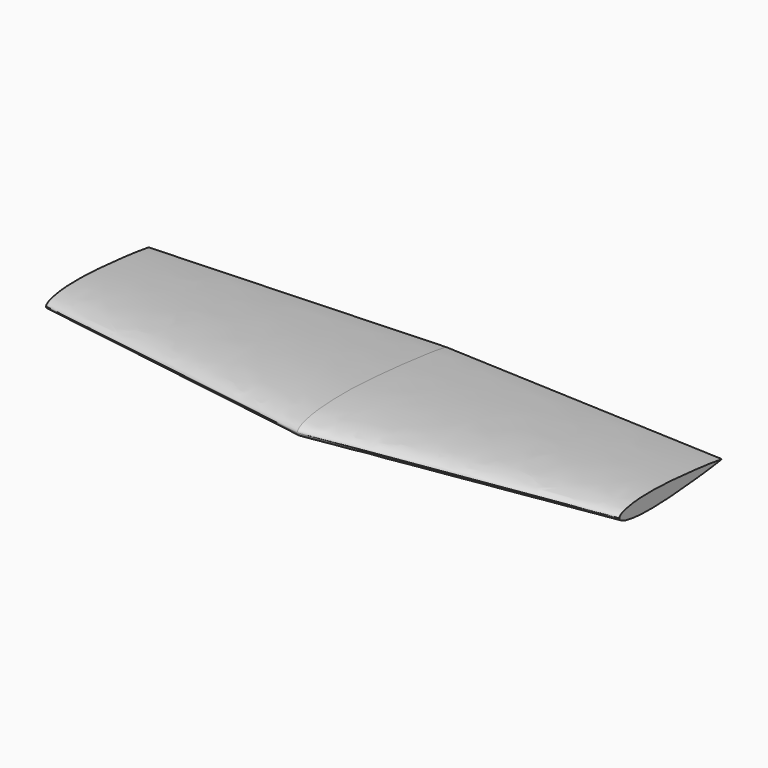
from build123d import *


with BuildPart() as f4:
    # F0 (on Right) → F4 section 0
    with BuildSketch(Plane.YZ):
        with BuildLine():
            add(Edge.make_bspline(
                [(-249.4226661325, 0.7359016616), (-249.3324471023, 5.9393396605), (-244.4395002911, 13.721784572), (-217.7139301189, 30.6476105221), (-180.9875952322, 39.7744520744), (-136.464012895, 48.6833460452), (-57.9453756352, 55.6398061074), (31.8815408136, 57.7648278599), (101.066836694, 56.873616159), (173.6402207186, 53.7273262938), (286.6796534095, 46.5592522363), (372.4848882342, 38.8051973733), (414.9507926646, 34.9195590894), (547.0853194146, 20.7189797502), (639.0409658254, 9.7519279376), (675.3088512628, 2.862391324), (690.3770457469, 0)],
                knots=[0, 0, 0, 0, 0.0323067012, 0.0811598613, 0.1361849641, 0.1959324846, 0.2754263957, 0.3609228044, 0.4344357874, 0.5103636116, 0.6068411375, 0.6882276634, 0.7469968519, 0.849319716, 0.937396962, 1, 1, 1, 1], degree=3))
            add(Edge.make_bspline(
                [(-249.4226661325, 0.7359016616), (-249.340596218, -4.4676712466), (-244.4598433458, -12.2577693652), (-217.7608131608, -29.2254289652), (-181.0488166844, -38.4097757385), (-136.5392409959, -47.3883863182), (-58.0315944034, -54.4678043913), (31.7918839341, -56.73349976), (100.9784906819, -55.9506389256), (173.5567130539, -52.9180087125), (286.6072329081, -45.9269723468), (372.4245059869, -38.3073049359), (414.8964435653, -34.4881764607), (547.0530475347, -20.4945479003), (639.0257564706, -9.6715195222), (675.3043870045, -2.8387898015), (690.3770457469, 0)],
                knots=[0, 0, 0, 0, 0.0323067012, 0.0811598613, 0.1361849641, 0.1959324846, 0.2754263957, 0.3609228044, 0.4344357874, 0.5103636116, 0.6068411375, 0.6882276634, 0.7469968519, 0.849319716, 0.937396962, 1, 1, 1, 1], degree=3))
        make_face()
    # F3 (on offset) → F4 section 1
    with BuildSketch(Plane.YZ.offset(1447.8)):
        with BuildLine():
            add(Edge.make_bspline(
                [(-25.1399427652, 0), (-25.025881028, 3.4082069404), (-20.6994698154, 10.7496934959), (-3.4725774192, 20.2315617035), (21.3489136711, 27.1894694005), (52.4351382702, 32.334354602), (88.2312720252, 37.0707745242), (170.0443609264, 40.4070585147), (242.1336873546, 37.1520666221), (286.6242446444, 35.622650734), (333.8127766836, 31.8702781536), (380.2614063461, 28.2843840282), (429.3893519266, 24.0755348483), (478.2267604977, 18.5861878867), (528.4681023976, 13.4904005332), (581.7083282245, 6.6162350974), (609.2865074165, 2.2797804246), (622.5600572348, 0)],
                knots=[0, 0, 0, 0, 0.0334899029, 0.0783997001, 0.1311143976, 0.1879221345, 0.2497398322, 0.343264432, 0.4318356468, 0.5000792298, 0.5701147716, 0.640703018, 0.7129072936, 0.7849983562, 0.8586170052, 0.9339364003, 1, 1, 1, 1], degree=3))
            add(Edge.make_bspline(
                [(-25.1399427652, 0), (-25.025881028, -3.4082069404), (-20.6994698154, -10.7496934959), (-3.4725774192, -20.2315617035), (21.3489136711, -27.1894694005), (52.4351382702, -32.334354602), (88.2312720252, -37.0707745242), (170.0443609264, -40.4070585147), (242.1336873546, -37.1520666221), (286.6242446444, -35.622650734), (333.8127766836, -31.8702781536), (380.2614063461, -28.2843840282), (429.3893519266, -24.0755348483), (478.2267604977, -18.5861878867), (528.4681023976, -13.4904005332), (581.7083282245, -6.6162350974), (609.2865074165, -2.2797804246), (622.5600572348, 0)],
                knots=[0, 0, 0, 0, 0.0334899029, 0.0783997001, 0.1311143976, 0.1879221345, 0.2497398322, 0.343264432, 0.4318356468, 0.5000792298, 0.5701147716, 0.640703018, 0.7129072936, 0.7849983562, 0.8586170052, 0.9339364003, 1, 1, 1, 1], degree=3))
        make_face()
    loft()

    # F5: F4 across plane


with BuildPart() as f4_1:
    add(f4.part)
    add(f4.part.mirror(Plane.YZ))


solid = f4_1.part
